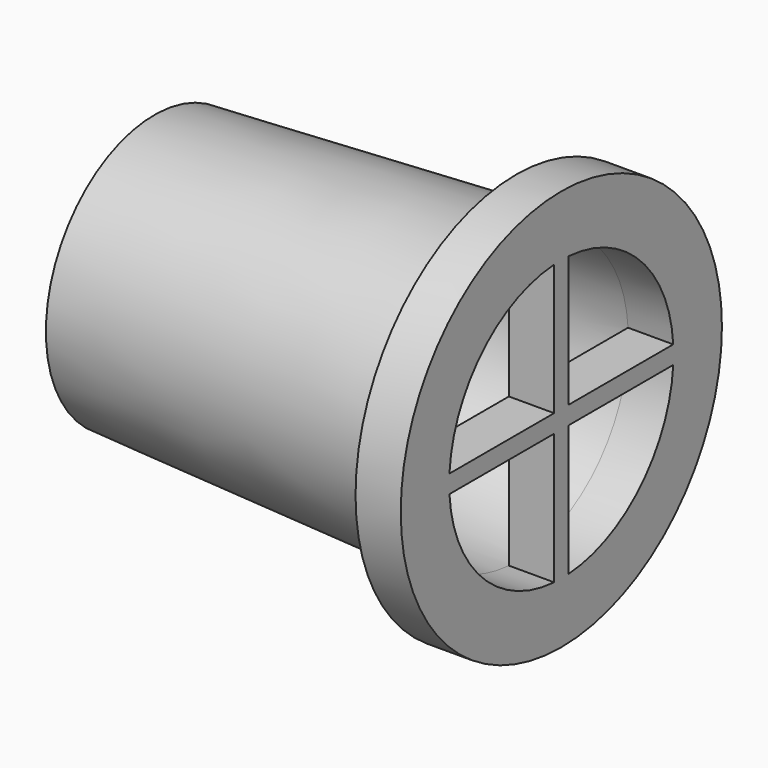
from build123d import *

# Parameters (mm, degrees)
F2_R     = 22.1977337457
F2_R_2   = 17
F3_DEPTH = 5


with BuildPart() as f1:
    # F0 (on Top) → F1 (revolve)
    with BuildSketch(Plane.XY):
        Polygon((-40, 13.5), (0, 15.5), (0, 17), (-40, 15), align=None)
    revolve(axis=Axis((-21.4074403048, 0, 0), (-1, 0, 0)))

    # F2 (on face) → F3 (join)
    with BuildSketch(Plane.YZ):
        Circle(F2_R)
        Circle(F2_R_2, mode=Mode.SUBTRACT)
        Circle(F2_R_2)
        with BuildLine():
            ThreePointArc((1, 15.4677082983), (10.9601551084, 10.9601551084), (15.4677082983, 1))
            ThreePointArc((15.4677082983, 1), (15.4919249711, 0.5002606206), (15.5, 0))
            ThreePointArc((15.5, 0), (15.4919249711, -0.5002606206), (15.4677082983, -1))
            ThreePointArc((15.4677082983, -1), (10.9601551084, -10.9601551084), (1, -15.4677082983))
            ThreePointArc((1, -15.4677082983), (0, -15.5), (-1, -15.4677082983))
            ThreePointArc((-1, -15.4677082983), (-10.9601551084, -10.9601551084), (-15.4677082983, -1))
            ThreePointArc((-15.4677082983, -1), (-15.5, 0), (-15.4677082983, 1))
            ThreePointArc((-15.4677082983, 1), (-10.9601551084, 10.9601551084), (-1, 15.4677082983))
            ThreePointArc((-1, 15.4677082983), (0, 15.5), (1, 15.4677082983))
        make_face(mode=Mode.SUBTRACT)
        with BuildLine():
            ThreePointArc((15.5, 0), (15.4919249711, 0.5002606206), (15.4677082983, 1))
            Line((15.4677082983, 1), (1, 1))
            Line((1, 1), (1, 15.4677082983))
            ThreePointArc((1, 15.4677082983), (0, 15.5), (-1, 15.4677082983))
            Line((-1, 15.4677082983), (-1, 1))
            Line((-1, 1), (-15.4677082983, 1))
            ThreePointArc((-15.4677082983, 1), (-15.5, 0), (-15.4677082983, -1))
            Line((-15.4677082983, -1), (-1, -1))
            Line((-1, -1), (-1, -15.4677082983))
            ThreePointArc((-1, -15.4677082983), (0, -15.5), (1, -15.4677082983))
            Line((1, -15.4677082983), (1, -1))
            Line((1, -1), (15.4677082983, -1))
            ThreePointArc((15.4677082983, -1), (15.4919249711, -0.5002606206), (15.5, 0))
        make_face()
    extrude(amount=F3_DEPTH)


solid = f1.part
